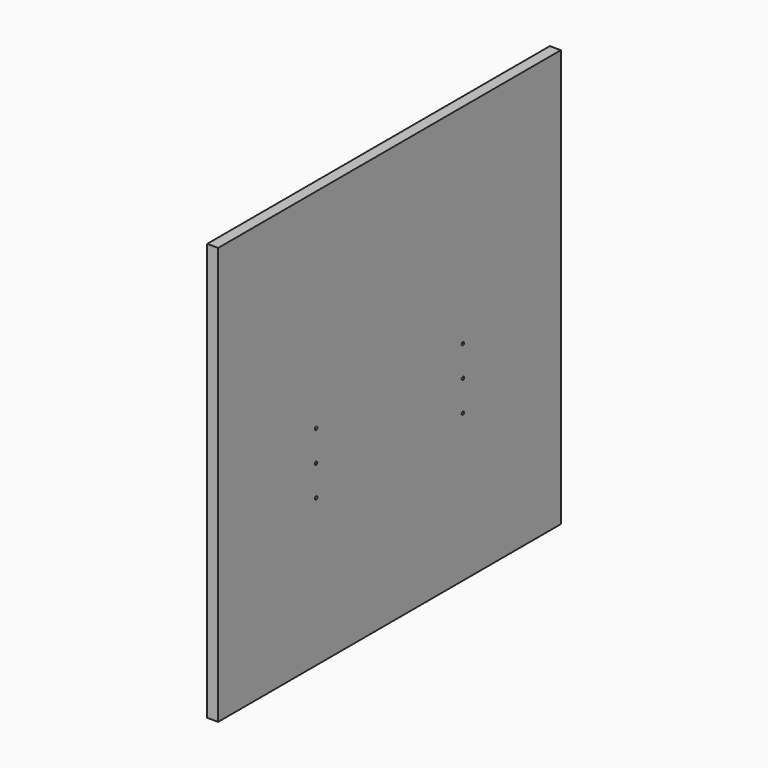
from build123d import *

# Parameters (mm, degrees)
F0_W     = 700
F0_H     = 682
F1_DEPTH = 18
F2_R     = 1.5
F3_DEPTH = 5
F4_R     = 5
F5_DEPTH = 13
F6_R     = 2.5
F7_DEPTH = 6


with BuildPart() as f1:
    # F0 (on Right) → F1 (new body)
    with BuildSketch(Plane.YZ):
        Rectangle(F0_W, F0_H)
    extrude(amount=F1_DEPTH)

    # F2 (on face) → F3 (cut)
    with BuildSketch(Plane(origin=(0, 0, -341), x_dir=(1, 0, 0), z_dir=(0, 0, -1))):
        with Locations((9, 325)):
            Circle(F2_R)
        with Locations((9, -325)):
            Circle(F2_R)
    extrude(amount=-F3_DEPTH, mode=Mode.SUBTRACT)

    # F4 (on face) → F5 (cut)
    with BuildSketch(Plane(origin=(0, 0, 0), x_dir=(0, -1, 0), z_dir=(-1, 0, 0))):
        with Locations((-254, 221)):
            Circle(F4_R)
        with Locations((254, 221)):
            Circle(F4_R)
        with Locations((-240, -244)):
            Circle(F4_R)
        with Locations((240, -244)):
            Circle(F4_R)
    extrude(amount=-F5_DEPTH, mode=Mode.SUBTRACT)

    # F6 (on face) → F7 (cut)
    with BuildSketch(Plane.YZ.offset(18)):
        with Locations((-150, 0)):
            Circle(F6_R)
        with Locations((150, 0)):
            Circle(F6_R)
        with Locations((-150, -50)):
            Circle(F6_R)
        with Locations((150, -50)):
            Circle(F6_R)
        with Locations((-150, -100)):
            Circle(F6_R)
        with Locations((150, -100)):
            Circle(F6_R)
    extrude(amount=-F7_DEPTH, mode=Mode.SUBTRACT)


solid = f1.part
